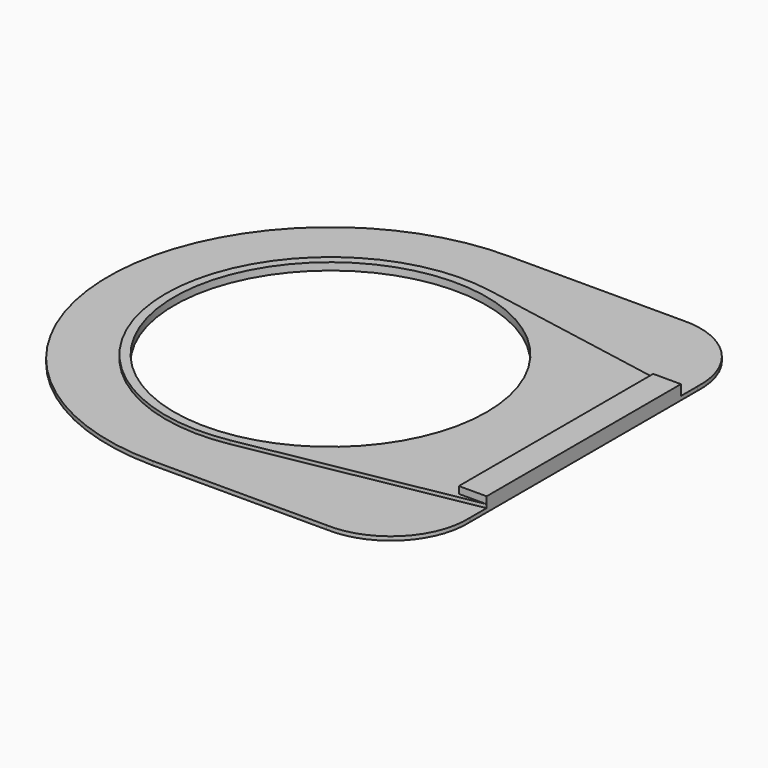
from build123d import *

# Parameters (mm, degrees)
SKETCH001_R  = 45
PAD_DEPTH    = 1.12
SKETCH_W     = 8
SKETCH_H     = 70
PAD003_DEPTH = 3
SKETCH024_R  = 45
PAD006_DEPTH = 1


with BuildPart() as part:
    # Sketch001 → Pad (new body)
    with BuildSketch(Plane.XY):
        with BuildLine():
            Line((50, 64), (0, 64))
            ThreePointArc((0, 64), (-64.000063665, 0), (0, -64))
            Line((50, -64), (0, -64))
            ThreePointArc((50, -64), (66.5801857662, -57.5801857662), (73, -41))
            Line((73, 41), (73, -41))
            ThreePointArc((73, 41), (66.5801857662, 57.5801857662), (50, 64))
        make_face()
        Circle(SKETCH001_R, mode=Mode.SUBTRACT)
    extrude(amount=-PAD_DEPTH)

    # Sketch → Pad003 (new body)
    with BuildSketch(Plane.XY):
        with Locations((69, 0)):
            Rectangle(SKETCH_W, SKETCH_H)
    extrude(amount=PAD003_DEPTH)

    # Sketch024 → Pad006 (new body)
    with BuildSketch(Plane.XY):
        with BuildLine():
            ThreePointArc((8.5010213733, 46.7331), (-47.5, 0), (8.5010213733, -46.7331))
            Line((8.5010213733, -46.7331), (73, -35))
            Line((73, 35), (73, -35))
            Line((8.5010213733, 46.7331), (73, 35))
        make_face()
        Circle(SKETCH024_R, mode=Mode.SUBTRACT)
    extrude(amount=PAD006_DEPTH)


solid = part.part
